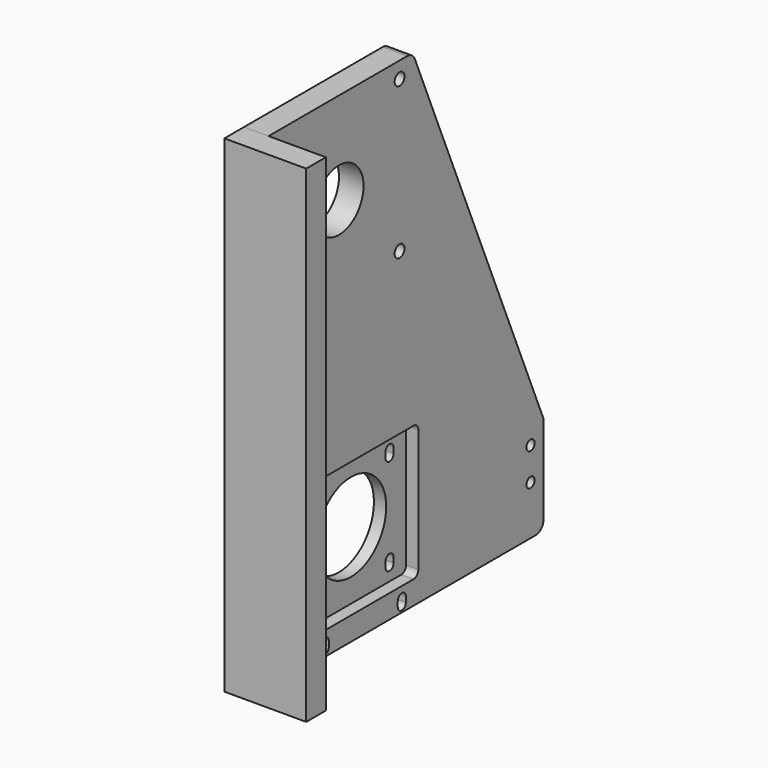
from build123d import *

# Parameters (mm, degrees)
F0_R     = 2.5
F0_R_2   = 3
F0_R_3   = 15
F1_DEPTH = 12
F2_R     = 5
F3_W     = 12
F3_H     = 238
F4_DEPTH = 40
F5_W     = 67.325378561
F5_H     = 66.0278675795
F5_R     = 21.5
F6_DEPTH = 6
F7_R     = 3


with BuildPart() as f1:
    # F0 (on Right) → F1 (new body)
    with BuildSketch(Plane.YZ):
        Polygon((60, 70), (-40, 70), (-40, -155), (-40, -168), (140, -168), (140, -155), (140, -120), align=None)
        with Locations((-22.9998427761, -144.0000000011)):
            Circle(F0_R, mode=Mode.SUBTRACT)
        with Locations((-22.9998427761, -128.0000000011)):
            Circle(F0_R, mode=Mode.SUBTRACT)
        with BuildLine():
            ThreePointArc((8.7955255248, -164.6278196573), (6.2955255248, -167.1278196573), (3.7955255248, -164.6278196573))
            Line((3.7955255248, -164.6278196573), (3.7955255248, -162.1278196573))
            ThreePointArc((3.7955255248, -162.1278196573), (6.2955255248, -159.6278196573), (8.7955255248, -162.1278196573))
            Line((8.7955255248, -162.1278196573), (8.7955255248, -164.6278196573))
        make_face(mode=Mode.SUBTRACT)
        with BuildLine():
            ThreePointArc((3.7955255248, -147.1278196573), (6.2955255248, -144.6278196573), (8.7955255248, -147.1278196573))
            Line((8.7955255248, -147.1278196573), (8.7955255248, -149.6278196573))
            ThreePointArc((8.7955255248, -149.6278196573), (6.2955255248, -152.1278196573), (3.7955255248, -149.6278196573))
            Line((3.7955255248, -149.6278196573), (3.7955255248, -147.1278196573))
        make_face(mode=Mode.SUBTRACT)
        with BuildLine():
            Line((-15.2751309797, -109.1645396501), (-15.2751309797, -29.1645396501))
            Line((-15.2751309797, -29.1645396501), (80.0356410052, -29.1645396501))
            Line((80.0356410052, -29.1645396501), (113.7198515315, -109.1645396501))
            Line((113.7198515315, -109.1645396501), (45.7988123157, -109.1645396501))
            ThreePointArc((45.7988123157, -109.1645396501), (49.9109892125, -115.8559567346), (51.3455255248, -123.5778196573))
            ThreePointArc((51.3455255248, -123.5778196573), (22.123662602, -143.643283345), (13.8922387339, -109.1645396501))
            Line((13.8922387339, -109.1645396501), (-15.2751309797, -109.1645396501))
        make_face(mode=Mode.SUBTRACT)
        with BuildLine():
            ThreePointArc((55.8955255248, -164.6278196573), (53.3955255248, -167.1278196573), (50.8955255248, -164.6278196573))
            Line((50.8955255248, -164.6278196573), (50.8955255248, -162.1278196573))
            ThreePointArc((50.8955255248, -162.1278196573), (53.3955255248, -159.6278196573), (55.8955255248, -162.1278196573))
            Line((55.8955255248, -162.1278196573), (55.8955255248, -164.6278196573))
        make_face(mode=Mode.SUBTRACT)
        with BuildLine():
            ThreePointArc((50.8955255248, -147.1278196573), (53.3955255248, -144.6278196573), (55.8955255248, -147.1278196573))
            Line((55.8955255248, -147.1278196573), (55.8955255248, -149.6278196573))
            ThreePointArc((55.8955255248, -149.6278196573), (53.3955255248, -152.1278196573), (50.8955255248, -149.6278196573))
            Line((50.8955255248, -149.6278196573), (50.8955255248, -147.1278196573))
        make_face(mode=Mode.SUBTRACT)
        with Locations((132, -144)):
            Circle(F0_R, mode=Mode.SUBTRACT)
        with Locations((132, -128)):
            Circle(F0_R, mode=Mode.SUBTRACT)
        with Locations((-22, -12)):
            Circle(F0_R_2, mode=Mode.SUBTRACT)
        with Locations((-22, 62)):
            Circle(F0_R_2, mode=Mode.SUBTRACT)
        with Locations((15, 25)):
            Circle(F0_R_3, mode=Mode.SUBTRACT)
        with Locations((52, -12)):
            Circle(F0_R_2, mode=Mode.SUBTRACT)
        with Locations((52, 62)):
            Circle(F0_R_2, mode=Mode.SUBTRACT)
        with BuildLine():
            Line((80.0356410052, -29.1645396501), (-15.2751309797, -29.1645396501))
            Line((-15.2751309797, -29.1645396501), (-15.2751309797, -109.1645396501))
            Line((-15.2751309797, -109.1645396501), (13.8922387339, -109.1645396501))
            ThreePointArc((13.8922387339, -109.1645396501), (29.8455255248, -102.0778196573), (45.7988123157, -109.1645396501))
            Line((45.7988123157, -109.1645396501), (113.7198515315, -109.1645396501))
            Line((113.7198515315, -109.1645396501), (80.0356410052, -29.1645396501))
        make_face()
        with BuildLine():
            ThreePointArc((8.7955255248, -102.5278196573), (6.2955255248, -105.0278196573), (3.7955255248, -102.5278196573))
            Line((3.7955255248, -102.5278196573), (3.7955255248, -100.0278196573))
            ThreePointArc((3.7955255248, -100.0278196573), (6.2955255248, -97.5278196573), (8.7955255248, -100.0278196573))
            Line((8.7955255248, -100.0278196573), (8.7955255248, -102.5278196573))
        make_face(mode=Mode.SUBTRACT)
        with BuildLine():
            ThreePointArc((55.8827681233, -102.5175169361), (53.3827681233, -105.0175169361), (50.8827681233, -102.5175169361))
            Line((50.8827681233, -102.5175169361), (50.8827681233, -100.0175169361))
            ThreePointArc((50.8827681233, -100.0175169361), (53.3827681233, -97.5175169361), (55.8827681233, -100.0175169361))
            Line((55.8827681233, -100.0175169361), (55.8827681233, -102.5175169361))
        make_face(mode=Mode.SUBTRACT)
    extrude(amount=F1_DEPTH)

    # F2
    f2_edges = [f1.edges().sort_by_distance(p)[0] for p in [
        (6, 60, 70),
        (6, 140, -120),
        (6, 140, -168),
    ]]
    fillet(f2_edges, radius=F2_R)

    # F5 (on face) → F6 (cut)
    with BuildSketch(Plane.YZ.offset(12)):
        with Locations((29.8455255248, -123.5778196573)):
            Rectangle(F5_W, F5_H)
        with BuildLine():
            Line((3.7955255248, -149.6278196573), (3.7955255248, -147.1278196573))
            ThreePointArc((3.7955255248, -147.1278196573), (6.2955255248, -144.6278196573), (8.7955255248, -147.1278196573))
            Line((8.7955255248, -147.1278196573), (8.7955255248, -149.6278196573))
            ThreePointArc((8.7955255248, -149.6278196573), (6.2955255248, -152.1278196573), (3.7955255248, -149.6278196573))
        make_face(mode=Mode.SUBTRACT)
        with Locations((29.8455255248, -123.5778196573)):
            Circle(F5_R, mode=Mode.SUBTRACT)
        with BuildLine():
            ThreePointArc((8.7955255248, -102.5278196573), (6.2955255248, -105.0278196573), (3.7955255248, -102.5278196573))
            Line((3.7955255248, -102.5278196573), (3.7955255248, -100.0278196573))
            ThreePointArc((3.7955255248, -100.0278196573), (6.2955255248, -97.5278196573), (8.7955255248, -100.0278196573))
            Line((8.7955255248, -100.0278196573), (8.7955255248, -102.5278196573))
        make_face(mode=Mode.SUBTRACT)
        with BuildLine():
            ThreePointArc((50.8955255248, -147.1278196573), (53.3955255248, -144.6278196573), (55.8955255248, -147.1278196573))
            Line((55.8955255248, -147.1278196573), (55.8955255248, -149.6278196573))
            ThreePointArc((55.8955255248, -149.6278196573), (53.3955255248, -152.1278196573), (50.8955255248, -149.6278196573))
            Line((50.8955255248, -149.6278196573), (50.8955255248, -147.1278196573))
        make_face(mode=Mode.SUBTRACT)
        with BuildLine():
            ThreePointArc((55.8827681233, -102.5175169361), (53.3827681233, -105.0175169361), (50.8827681233, -102.5175169361))
            Line((50.8827681233, -102.5175169361), (50.8827681233, -100.0175169361))
            ThreePointArc((50.8827681233, -100.0175169361), (53.3827681233, -97.5175169361), (55.8827681233, -100.0175169361))
            Line((55.8827681233, -100.0175169361), (55.8827681233, -102.5175169361))
        make_face(mode=Mode.SUBTRACT)
    extrude(amount=-F6_DEPTH, mode=Mode.SUBTRACT)

    # F7
    f7_edges = [f1.edges().sort_by_distance(p)[0] for p in [
        (9, -3.817164, -156.591753),
        (9, 63.508215, -156.591753),
        (9, 63.508215, -90.563886),
        (9, -3.817164, -90.563886),
    ]]
    fillet(f7_edges, radius=F7_R)


with BuildPart() as f4:
    # F3 (on Right) → F4 (new body)
    with BuildSketch(Plane.YZ):
        with Locations((-34, -49)):
            Rectangle(F3_W, F3_H)
    extrude(amount=F4_DEPTH)


solid = Compound([f1.part, f4.part])
